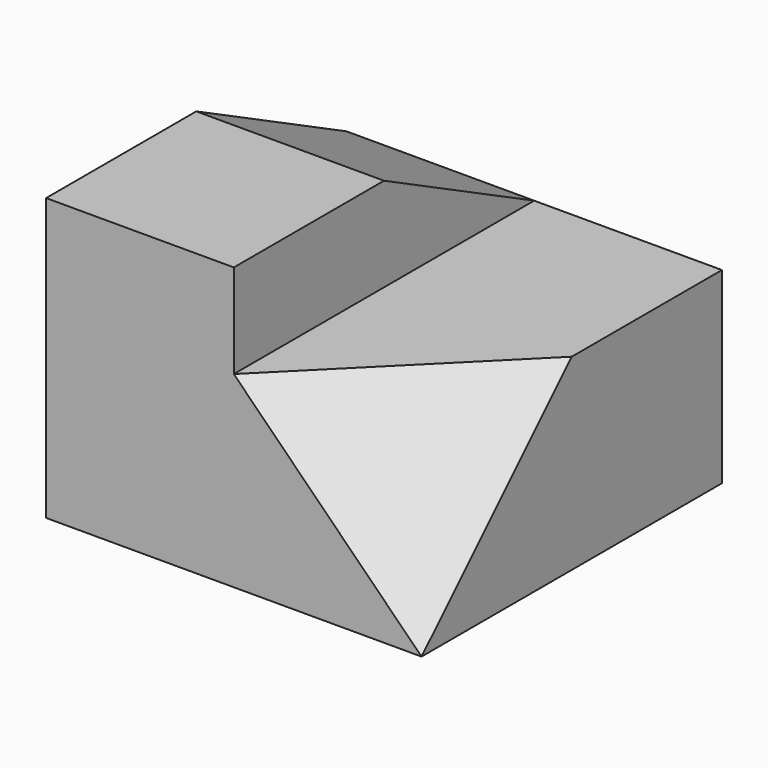
from build123d import *

# Parameters (mm, degrees)
F0_W     = 254
F0_H     = 254
F1_DEPTH = 63.5
F2_W     = 127
F2_H     = 63.5
F3_DEPTH = 127
F8_DEPTH = 109.9862262806


with BuildPart() as f1:
    # F0 (on Top) → F1 (new body, symmetric)
    with BuildSketch(Plane.XY):
        with Locations((127, 127)):
            Rectangle(F0_W, F0_H)
    extrude(amount=F1_DEPTH, both=True)

    # F2 (on face) → F3 (join)
    with BuildSketch(Plane(origin=(0, 0, 0), x_dir=(0, -1, 0), z_dir=(-1, 0, 0))):
        with Locations((-63.5, 95.25)):
            Rectangle(F2_W, F2_H)
        Polygon((-254, 63.5), (-127, 63.5), (-127, 127), align=None)
    extrude(amount=-F3_DEPTH)

    # F7 (on 3pt) → F8 (cut, through all)
    with BuildSketch(Plane(origin=(63.5, -63.5, 63.5), x_dir=(0.8164965809, 0.4082482905, -0.4082482905), z_dir=(0.5773502692, -0.5773502692, 0.5773502692))):
        Polygon((233.313898, 134.703841816), (77.7712993334, 44.9012806053), (233.313898, -44.9012806053), align=None)
    extrude(amount=F8_DEPTH, mode=Mode.SUBTRACT)


solid = f1.part
